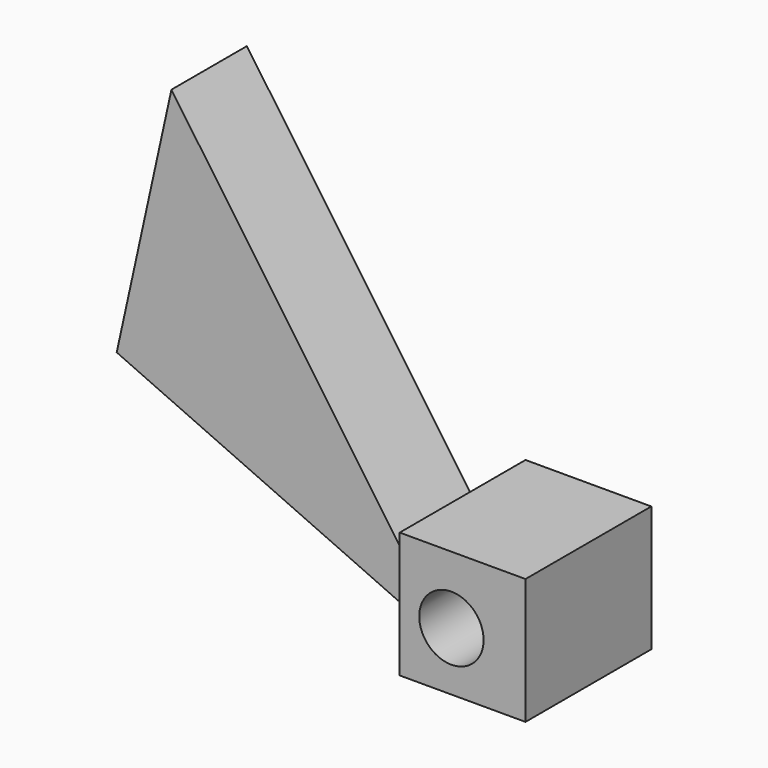
from build123d import *

# Parameters (mm, degrees)
F1_DEPTH = 15
F2_W     = 20
F2_H     = 20
F3_DEPTH = 20
F5_R     = 7.569686
F4_W     = 20
F4_H     = 20
F6_DEPTH = 25
F7_R     = 5.115705
F8_DEPTH = 25


with BuildPart() as f1:
    # F0 (on Front) → F1 (new body)
    with BuildSketch(Plane.XZ):
        Polygon((-52.996006, 23.922602), (0, 0), (-44.296876, 63.526526), align=None)
    extrude(amount=F1_DEPTH)



with BuildPart() as f3:
    # F2 (on Front) → F3 (new body)
    with BuildSketch(Plane.XZ):
        with Locations((10, 10)):
            Rectangle(F2_W, F2_H)
    extrude(amount=F3_DEPTH)


with BuildPart() as f1_1:
    add(f1.part)

    add(f3.part)  # F6 merges F3
    # F5 (on face) + F4 (on face) → F6 (join)
    with BuildSketch(Plane(origin=(0, 0, 0), x_dir=(-1, 0, 0), z_dir=(0, 1, 0))):
        with Locations((-11.184696, 10)):
            Circle(F5_R)
    with BuildSketch(Plane(origin=(0, 0, 0), x_dir=(-1, 0, 0), z_dir=(0, 1, 0))):
        with Locations((-10, 10)):
            Rectangle(F4_W, F4_H)
    extrude(amount=-F6_DEPTH)

    # F7 (on face) → F8 (cut)
    with BuildSketch(Plane.XZ.offset(25)):
        with Locations((8.221688, 9.291411)):
            Circle(F7_R)
    extrude(amount=-F8_DEPTH, mode=Mode.SUBTRACT)


solid = f1_1.part
